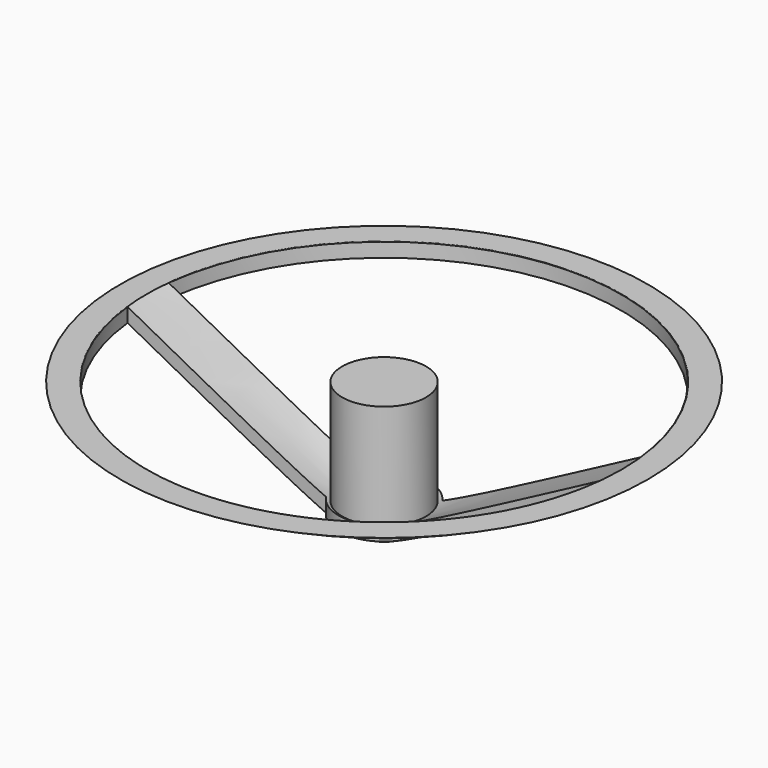
from build123d import *

# Parameters (mm, degrees)
F3_DEPTH = 25.4


with BuildPart() as f1:
    # F0 (on Front) → F1 (revolve)
    with BuildSketch(Plane.XZ):
        Polygon((4.520118, 0), (0, 0), (0, -7.362884), (0, -8.120686), (1.567202, -8.120686), (1.567202, -14.471013), (1.567202, -16.159639), (4.721958, -14.471013), (31.757258, 0), (28.579464, 0), (5.046357, -12.607159), (5.046357, 0), align=None)
    revolve(axis=Axis((0, 0, -4.060343), (0, 0, -1)))

    # F2 (on Top) → F3 (cut)
    with BuildSketch(Plane.XY):
        with BuildLine():
            ThreePointArc((-4.51249, 3.106461), (0, 5.478381), (4.51249, 3.106461))
            Line((4.51249, 3.106461), (28.376638, 3.106461))
            ThreePointArc((28.376638, 3.106461), (0, 28.546168), (-28.376638, 3.106461))
            Line((-28.376638, 3.106461), (-4.51249, 3.106461))
        make_face()
        with BuildLine():
            Line((28.376638, -3.106461), (4.51249, -3.106461))
            ThreePointArc((4.51249, -3.106461), (0, -5.478381), (-4.51249, -3.106461))
            Line((-4.51249, -3.106461), (-28.376638, -3.106461))
            ThreePointArc((-28.376638, -3.106461), (0, -28.546168), (28.376638, -3.106461))
        make_face()
    extrude(amount=-F3_DEPTH, mode=Mode.SUBTRACT)


solid = f1.part
